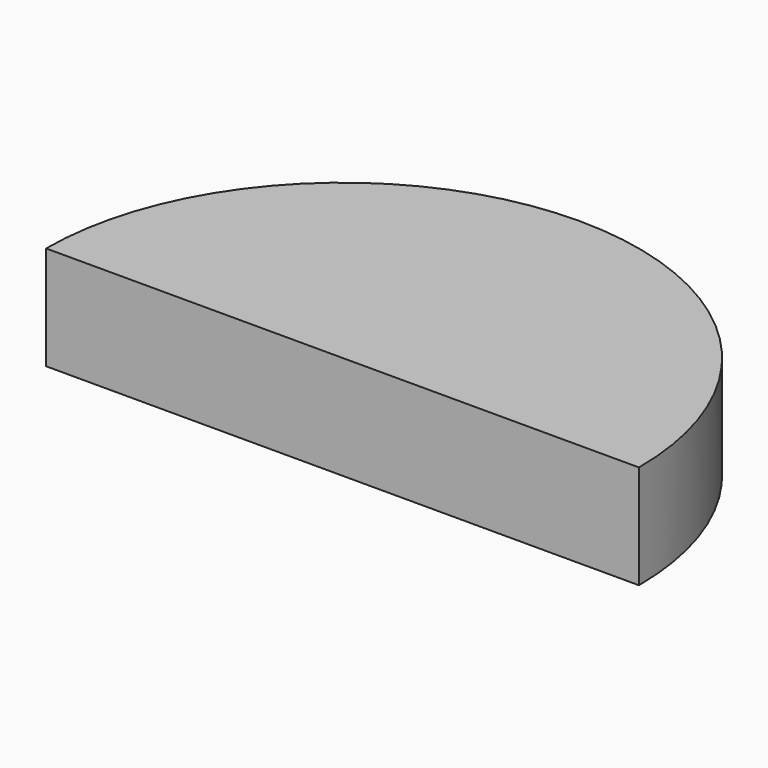
from build123d import *

# Parameters (mm, degrees)
PAD_DEPTH = 70


with BuildPart() as part:
    # Sketch → Pad (new body)
    with BuildSketch(Plane.XY):
        with BuildLine():
            ThreePointArc((200, 0), (0, 200), (-200, 0))
            Line((-200, 0), (200, 0))
        make_face()
    extrude(amount=PAD_DEPTH)


solid = part.part
